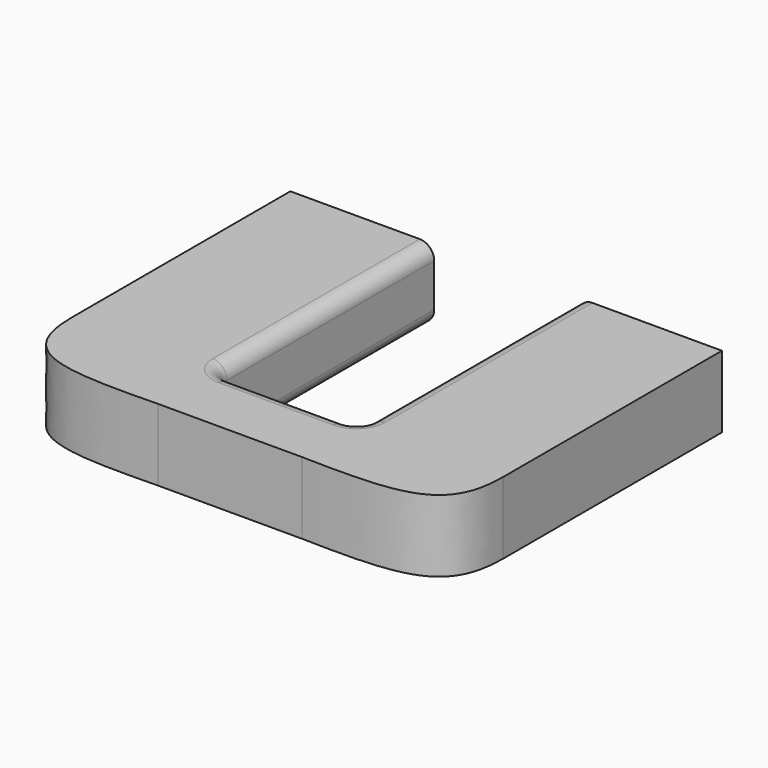
from build123d import *

# Parameters (mm, degrees)
F0_W     = 50.8
F0_H     = 96.52
F0_W_2   = 25.4
F0_H_2   = 25.4
F1_DEPTH = 25.4
F2_R     = 5.08


with BuildPart() as f1:
    # F0 (on Top) → F1 (new body)
    with BuildSketch(Plane.XY):
        Rectangle(F0_W, F0_H)
        with BuildLine():
            Line((25.4, -48.26), (-25.4, -48.26))
            add(Edge.make_bspline(
                [(-25.4, -48.26), (-25.400003, -73.229496), (-9.901697, -74.52103), (25.4, -73.66)],
                knots=[0, 0, 0, 0, 56.796127, 56.796127, 56.796127, 56.796127], degree=3))
            Line((25.4, -73.66), (25.4, -48.26))
        make_face()
        with Locations((38.1, -60.96)):
            Rectangle(F0_W_2, F0_H_2)
    extrude(amount=F1_DEPTH)

    # F2
    f2_edges = [f1.edges().sort_by_distance(p)[0] for p in [
        (25.4, 0, 25.4),
        (38.1, -48.26, 25.4),
        (38.1, -48.26, 0),
        (25.4, 0, 0),
        (25.4, -48.26, 12.7),
    ]]
    fillet(f2_edges, radius=F2_R)

    # F3: F1 across face


with BuildPart() as f1_1:
    add(f1.part)
    add(f1.part.mirror(Plane(origin=(50.8, -61.162023, 12.7), x_dir=(0, 1, 0), z_dir=(1, 0, 0))))


solid = f1_1.part
